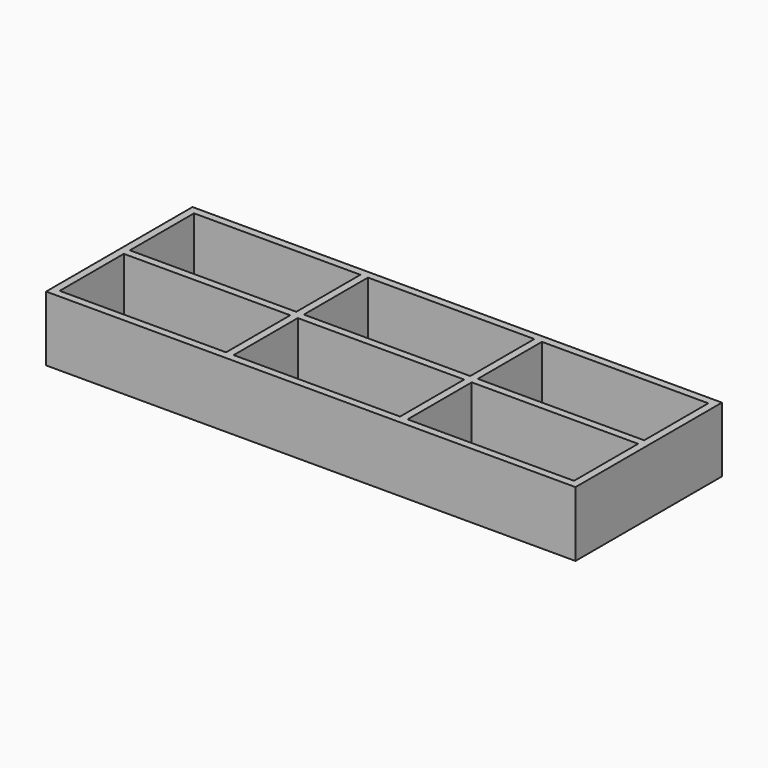
from build123d import *

# Parameters (mm, degrees)
F2_W     = 700
F2_H     = 242
F2_W_2   = 220
F2_H_2   = 106
F3_DEPTH = 86
F4_DEPTH = 76


with BuildPart() as f3:
    # F2 (on Top) → F3 (new body)
    with BuildSketch(Plane.XY):
        with Locations((79.4747328101, 7.7042136107)):
            Rectangle(F2_W, F2_H)
        with Locations((-150.5252671899, -50.2957863893)):
            Rectangle(F2_W_2, F2_H_2, mode=Mode.SUBTRACT)
        with Locations((79.4747328101, -50.2957863893)):
            Rectangle(F2_W_2, F2_H_2, mode=Mode.SUBTRACT)
        with Locations((309.4747328101, -50.2957863893)):
            Rectangle(F2_W_2, F2_H_2, mode=Mode.SUBTRACT)
        with Locations((-150.5252671899, 65.7042136107)):
            Rectangle(F2_W_2, F2_H_2, mode=Mode.SUBTRACT)
        with Locations((79.4747328101, 65.7042136107)):
            Rectangle(F2_W_2, F2_H_2, mode=Mode.SUBTRACT)
        with Locations((309.4747328101, 65.7042136107)):
            Rectangle(F2_W_2, F2_H_2, mode=Mode.SUBTRACT)
        with Locations((-150.5252671899, 65.7042136107)):
            Rectangle(F2_W_2, F2_H_2)
        with Locations((-150.5252671899, -50.2957863893)):
            Rectangle(F2_W_2, F2_H_2)
        with Locations((79.4747328101, -50.2957863893)):
            Rectangle(F2_W_2, F2_H_2)
        with Locations((79.4747328101, 65.7042136107)):
            Rectangle(F2_W_2, F2_H_2)
        with Locations((309.4747328101, 65.7042136107)):
            Rectangle(F2_W_2, F2_H_2)
        with Locations((309.4747328101, -50.2957863893)):
            Rectangle(F2_W_2, F2_H_2)
    extrude(amount=-F3_DEPTH)

    # F2 (on Top) → F4 (cut)
    with BuildSketch(Plane.XY):
        with Locations((-150.5252671899, 65.7042136107)):
            Rectangle(F2_W_2, F2_H_2)
        with Locations((-150.5252671899, -50.2957863893)):
            Rectangle(F2_W_2, F2_H_2)
        with Locations((79.4747328101, 65.7042136107)):
            Rectangle(F2_W_2, F2_H_2)
        with Locations((79.4747328101, -50.2957863893)):
            Rectangle(F2_W_2, F2_H_2)
        with Locations((309.4747328101, 65.7042136107)):
            Rectangle(F2_W_2, F2_H_2)
        with Locations((309.4747328101, -50.2957863893)):
            Rectangle(F2_W_2, F2_H_2)
    extrude(amount=-F4_DEPTH, mode=Mode.SUBTRACT)


solid = f3.part
